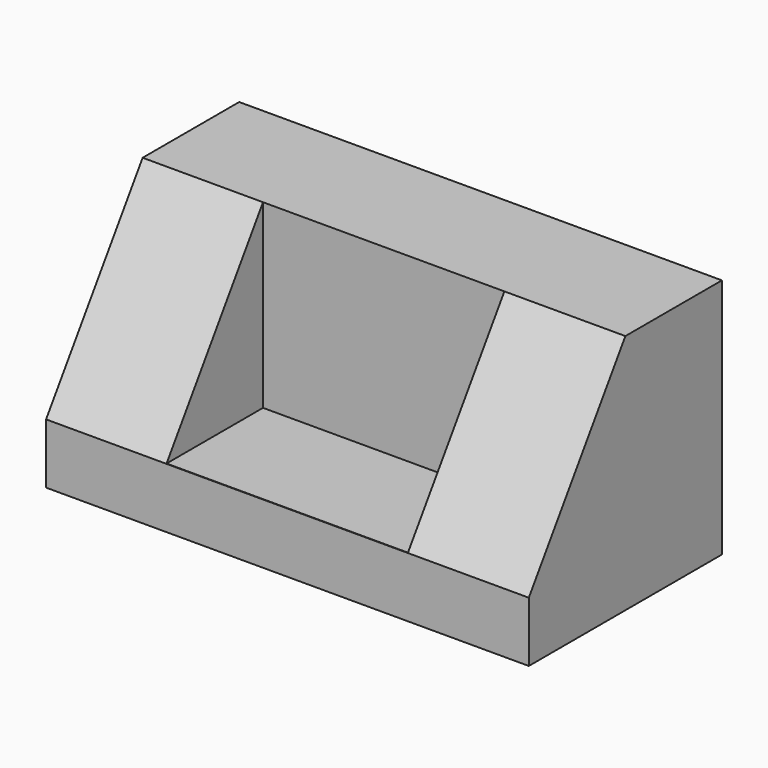
from build123d import *

# Parameters (mm, degrees)
F0_W     = 203.2
F0_H     = 101.6
F1_DEPTH = 101.6
F2_W     = 101.6
F2_H     = 76.2
F3_DEPTH = 50.8
F5_DEPTH = 50.8
F7_DEPTH = 203.201


with BuildPart() as f1:
    # F0 (on Front) → F1 (new body)
    with BuildSketch(Plane.XZ):
        with Locations((-7.6962560415, -14.9830856085)):
            Rectangle(F0_W, F0_H)
    extrude(amount=F1_DEPTH)

    # F2 (on face) → F3 (cut)
    with BuildSketch(Plane.XZ.offset(101.6)):
        with Locations((-7.826578486, -2.2830856085)):
            Rectangle(F2_W, F2_H)
    extrude(amount=-F3_DEPTH, mode=Mode.SUBTRACT)

    # F4 (on face) → F5 (cut)
    with BuildSketch(Plane(origin=(-109.2962560415, 0, 0), x_dir=(0, -1, 0), z_dir=(-1, 0, 0))):
        Polygon((50.8, 35.8169143915), (101.6, -40.3830856085), (101.6, 35.8169143915), align=None)
    extrude(amount=-F5_DEPTH, mode=Mode.SUBTRACT)

    # F6 (on face) → F7 (cut, through all)
    with BuildSketch(Plane.YZ.offset(93.9037439585)):
        Polygon((-101.6, 35.8169143915), (-101.6, -40.4823369622), (-50.8, 35.8169143915), align=None)
    extrude(amount=-F7_DEPTH, mode=Mode.SUBTRACT)


solid = f1.part
